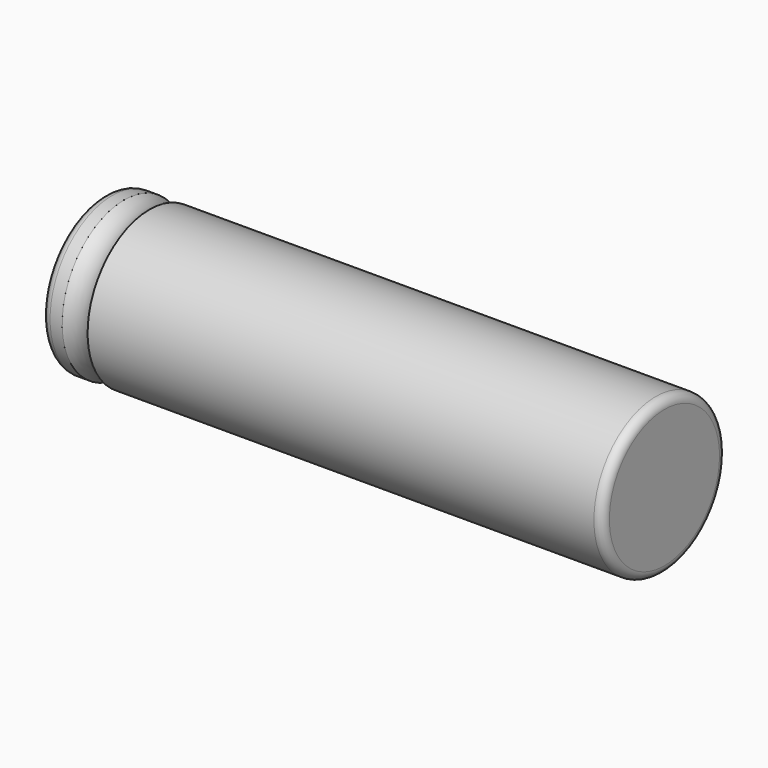
from build123d import *

# Parameters (mm, degrees)
F0_R     = 9
F1_DEPTH = 65.2
F2_R     = 1
F3_R     = 3
F4_DEPTH = 1
F5_R     = 0.5
F6_R     = 3


with BuildPart() as f1:
    # F0 (on Right) → F1 (new body)
    with BuildSketch(Plane.YZ):
        Circle(F0_R)
    extrude(amount=F1_DEPTH)

    # F2
    f2_edges = [f1.edges().sort_by_distance(p)[0] for p in [
        (65.2, -9, 0),
        (0, -9, 0),
    ]]
    fillet(f2_edges, radius=F2_R)

    # F3 (on Right) → F4 (join)
    with BuildSketch(Plane.YZ):
        Circle(F3_R)
    extrude(amount=-F4_DEPTH)

    # F5
    f5_edges = [f1.edges().sort_by_distance(p)[0] for p in [
        (-1, -3, 0),
    ]]
    fillet(f5_edges, radius=F5_R)

    # F6 (on Front) → F7 (revolve, cut)
    with BuildSketch(Plane.XZ):
        with Locations((3.8806945086, 11.6108693182)):
            Circle(F6_R)
    revolve(axis=Axis((1, 0, 0), (1, 0, 0)), mode=Mode.SUBTRACT)


solid = f1.part
